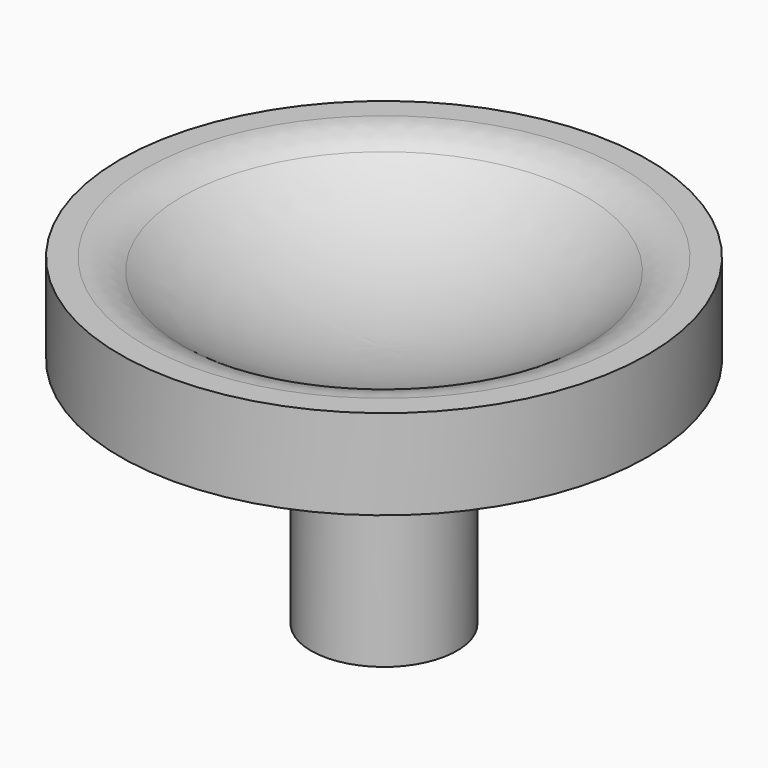
from build123d import *

# Parameters (mm, degrees)
F2_R = 2


with BuildPart() as f1:
    # F0 (on Front) → F1 (revolve)
    with BuildSketch(Plane.XZ):
        with BuildLine():
            Line((-2.35, 0), (0, 0))
            Line((0, 0), (0, 7.84415))
            ThreePointArc((0, 7.84415), (-3.725421, 8.502268), (-7, 10.396736))
            Line((-7, 10.396736), (-8.5, 10.396736))
            Line((-8.5, 10.396736), (-8.5, 7.5))
            Line((-8.5, 7.5), (-2.35, 7.5))
            Line((-2.35, 7.5), (-2.35, 0))
        make_face()
    revolve(axis=Axis((0, 0, 3.922075), (0, 0, -1)))

    # F2
    f2_edges = [f1.edges().sort_by_distance(p)[0] for p in [
        (7, 0, 10.396736),
    ]]
    fillet(f2_edges, radius=F2_R)


solid = f1.part
